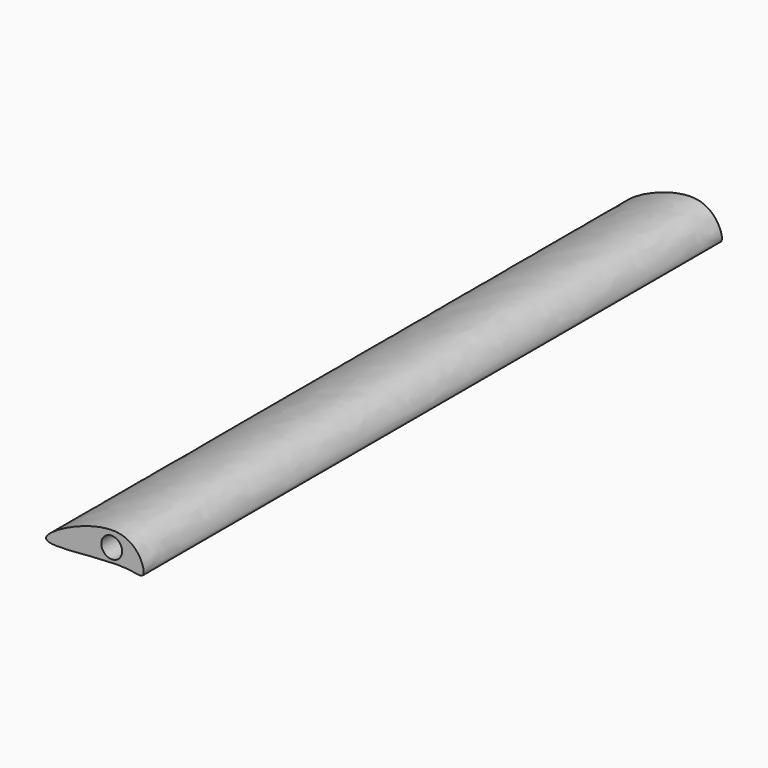
from build123d import *

# Parameters (mm, degrees)
F0_R     = 9.525
F1_DEPTH = 660.4


with BuildPart() as f1:
    # F0 (on Front) → F1 (new body)
    with BuildSketch(Plane.XZ):
        with BuildLine():
            add(Edge.make_bspline(
                [(34.4772443126, 0), (36.1334618663, 4.9167173879), (21.0274809211, 46.7818580466), (-100.3002824106, -15.7277106078), (16.3343959466, 5.4865726125), (33.2073317445, -3.7699160903), (34.4772443126, 0)],
                knots=[0, 0, 0, 0, 0.2112124007, 0.5283659568, 0.8380519023, 1, 1, 1, 1], degree=3))
        make_face()
        with Locations((5.5225454271, 12.2466664761)):
            Circle(F0_R, mode=Mode.SUBTRACT)
    extrude(amount=F1_DEPTH)


solid = f1.part
